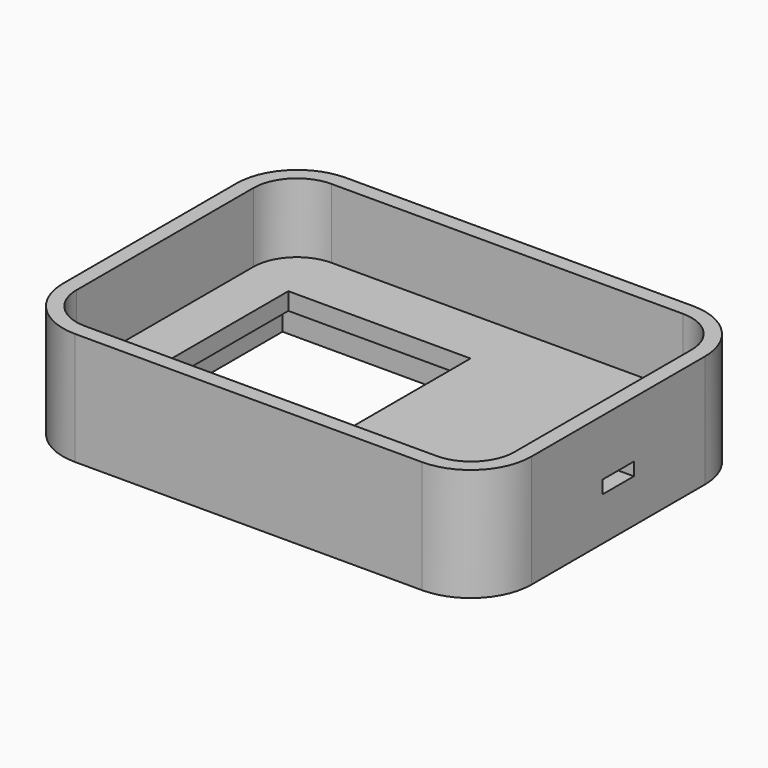
from build123d import *

# Parameters (mm, degrees)
F0_W      = 54
F0_H      = 39
F1_DEPTH  = 13
F2_W      = 50.5
F2_H      = 35.5
F3_DEPTH  = 8
F4_W      = 24
F4_H      = 24
F5_DEPTH  = 3
F6_W      = 21
F6_H      = 21
F7_DEPTH  = 2
F8_R      = 5
F9_R      = 7
F10_W     = 4.5
F10_H     = 1.5
F11_DEPTH = 1.75


with BuildPart() as f1:
    # F0 (on Top) → F1 (new body)
    with BuildSketch(Plane.XY):
        Rectangle(F0_W, F0_H)
    extrude(amount=F1_DEPTH)

    # F2 (on face) → F3 (cut)
    with BuildSketch(Plane.XY.offset(13)):
        Rectangle(F2_W, F2_H)
    extrude(amount=-F3_DEPTH, mode=Mode.SUBTRACT)

    # F4 (on face) → F5 (cut)
    with BuildSketch(Plane(origin=(0, 0, 0), x_dir=(1, 0, 0), z_dir=(0, 0, -1))):
        with Locations((-9.3, 0)):
            Rectangle(F4_W, F4_H)
    extrude(amount=-F5_DEPTH, mode=Mode.SUBTRACT)

    # F6 (on face) → F7 (cut)
    with BuildSketch(Plane(origin=(0, 0, 3), x_dir=(1, 0, 0), z_dir=(0, 0, -1))):
        with Locations((-9.329, -0.501032)):
            Rectangle(F6_W, F6_H)
    extrude(amount=-F7_DEPTH, mode=Mode.SUBTRACT)

    # F8
    f8_edges = [f1.edges().sort_by_distance(p)[0] for p in [
        (-25.25, 17.75, 9),
        (25.25, 17.75, 9),
        (-25.25, -17.75, 9),
        (25.25, -17.75, 9),
    ]]
    fillet(f8_edges, radius=F8_R)

    # F9
    f9_edges = [f1.edges().sort_by_distance(p)[0] for p in [
        (-27, 19.5, 6.5),
        (-27, -19.5, 6.5),
        (27, 19.5, 6.5),
        (27, -19.5, 6.5),
    ]]
    fillet(f9_edges, radius=F9_R)

    # F10 (on face) → F11 (cut)
    with BuildSketch(Plane.YZ.offset(27)):
        with Locations((0, 5.75)):
            Rectangle(F10_W, F10_H)
    extrude(amount=-F11_DEPTH, mode=Mode.SUBTRACT)


solid = f1.part
